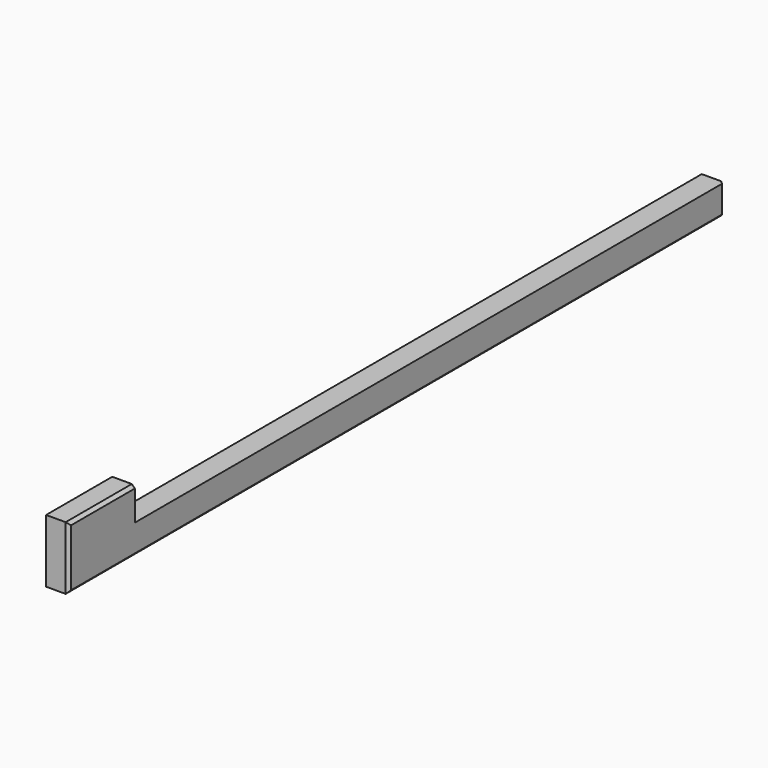
from build123d import *

# Parameters (mm, degrees)
F1_DEPTH = 19.05
F2_SIZE  = 2.54


with BuildPart() as f1:
    # F0 (on Right) → F1 (new body)
    with BuildSketch(Plane.YZ):
        Polygon((-346.075, 26.67), (-346.075, -26.67), (346.075, -26.67), (346.075, -1.27), (-276.225, -1.27), (-276.225, 26.67), align=None)
    extrude(amount=F1_DEPTH)

    # F2
    f2_edges = [f1.edges().sort_by_distance(p)[0] for p in [
        (19.05, -311.15, 26.67),
        (19.05, -346.075, 0),
        (19.05, 0, -26.67),
        (19.05, 346.075, -13.97),
    ]]
    chamfer(f2_edges, length=F2_SIZE)


solid = f1.part
